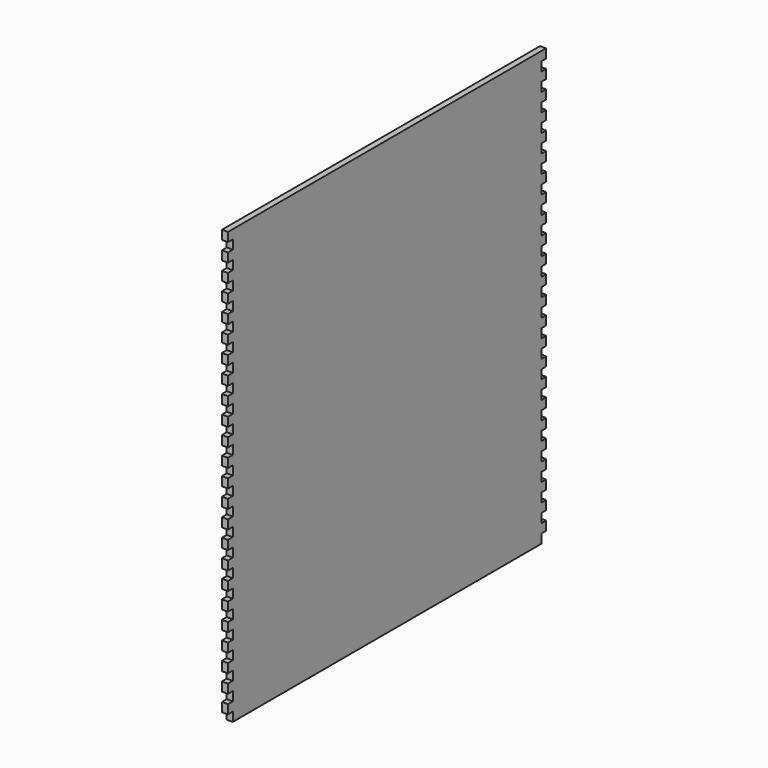
from build123d import *

# Parameters (mm, degrees)
F1_DEPTH = 6.35


with BuildPart() as f1:
    # F0 (on Right) → F1 (new body)
    with BuildSketch(Plane.YZ):
        Polygon((-203.2, 228.6), (-209.55, 228.6), (-209.55, 219.075), (-203.2, 219.075), (-203.2, 209.55), (-209.55, 209.55), (-209.55, 200.025), (-203.2, 200.025), (-203.2, 190.5), (-209.55, 190.5), (-209.55, 180.975), (-203.2, 180.975), (-203.2, 171.45), (-209.55, 171.45), (-209.55, 161.925), (-203.2, 161.925), (-203.2, 152.4), (-209.55, 152.4), (-209.55, 142.875), (-203.2, 142.875), (-203.2, 133.35), (-209.55, 133.35), (-209.55, 123.825), (-203.2, 123.825), (-203.2, 114.3), (-209.55, 114.3), (-209.55, 104.775), (-203.2, 104.775), (-203.2, 95.25), (-209.55, 95.25), (-209.55, 85.725), (-203.2, 85.725), (-203.2, 76.2), (-209.55, 76.2), (-209.55, 66.675), (-203.2, 66.675), (-203.2, 57.15), (-209.55, 57.15), (-209.55, 47.625), (-203.2, 47.625), (-203.2, 38.1), (-209.55, 38.1), (-209.55, 28.575), (-203.2, 28.575), (-203.2, 19.05), (-209.55, 19.05), (-209.55, 9.525), (-203.2, 9.525), (-203.2, 0), (-209.55, 0), (-209.55, -9.525), (-203.2, -9.525), (-203.2, -19.05), (-209.55, -19.05), (-209.55, -28.575), (-203.2, -28.575), (-203.2, -38.1), (-209.55, -38.1), (-209.55, -47.625), (-203.2, -47.625), (-203.2, -57.15), (-209.55, -57.15), (-209.55, -66.675), (-203.2, -66.675), (-203.2, -76.2), (-209.55, -76.2), (-209.55, -85.725), (-203.2, -85.725), (-203.2, -95.25), (-209.55, -95.25), (-209.55, -104.775), (-203.2, -104.775), (-203.2, -114.3), (-209.55, -114.3), (-209.55, -123.825), (-203.2, -123.825), (-203.2, -133.35), (-209.55, -133.35), (-209.55, -142.875), (-203.2, -142.875), (-203.2, -152.4), (-209.55, -152.4), (-209.55, -161.925), (-203.2, -161.925), (-203.2, -171.45), (-209.55, -171.45), (-209.55, -180.975), (-203.2, -180.975), (-203.2, -190.5), (-209.55, -190.5), (-209.55, -200.025), (-203.2, -200.025), (-203.2, -209.55), (-209.55, -209.55), (-209.55, -219.075), (-203.2, -219.075), (-203.2, -228.6), (0, -228.6), (0, 228.6), align=None)
        Polygon((203.2, 228.6), (0, 228.6), (0, -228.6), (203.2, -228.6), (203.2, -219.075), (209.55, -219.075), (209.55, -209.55), (203.2, -209.55), (203.2, -200.025), (209.55, -200.025), (209.55, -190.5), (203.2, -190.5), (203.2, -180.975), (209.55, -180.975), (209.55, -171.45), (203.2, -171.45), (203.2, -161.925), (209.55, -161.925), (209.55, -152.4), (203.2, -152.4), (203.2, -142.875), (209.55, -142.875), (209.55, -133.35), (203.2, -133.35), (203.2, -123.825), (209.55, -123.825), (209.55, -114.3), (203.2, -114.3), (203.2, -104.775), (209.55, -104.775), (209.55, -95.25), (203.2, -95.25), (203.2, -85.725), (209.55, -85.725), (209.55, -76.2), (203.2, -76.2), (203.2, -66.675), (209.55, -66.675), (209.55, -57.15), (203.2, -57.15), (203.2, -47.625), (209.55, -47.625), (209.55, -38.1), (203.2, -38.1), (203.2, -28.575), (209.55, -28.575), (209.55, -19.05), (203.2, -19.05), (203.2, -9.525), (209.55, -9.525), (209.55, 0), (203.2, 0), (203.2, 9.525), (209.55, 9.525), (209.55, 19.05), (203.2, 19.05), (203.2, 28.575), (209.55, 28.575), (209.55, 38.1), (203.2, 38.1), (203.2, 47.625), (209.55, 47.625), (209.55, 57.15), (203.2, 57.15), (203.2, 66.675), (209.55, 66.675), (209.55, 76.2), (203.2, 76.2), (203.2, 85.725), (209.55, 85.725), (209.55, 95.25), (203.2, 95.25), (203.2, 104.775), (209.55, 104.775), (209.55, 114.3), (203.2, 114.3), (203.2, 123.825), (209.55, 123.825), (209.55, 133.35), (203.2, 133.35), (203.2, 142.875), (209.55, 142.875), (209.55, 152.4), (203.2, 152.4), (203.2, 161.925), (209.55, 161.925), (209.55, 171.45), (203.2, 171.45), (203.2, 180.975), (209.55, 180.975), (209.55, 190.5), (203.2, 190.5), (203.2, 200.025), (209.55, 200.025), (209.55, 209.55), (203.2, 209.55), (203.2, 219.075), (209.55, 219.075), (209.55, 228.6), align=None)
    extrude(amount=F1_DEPTH)


solid = f1.part
